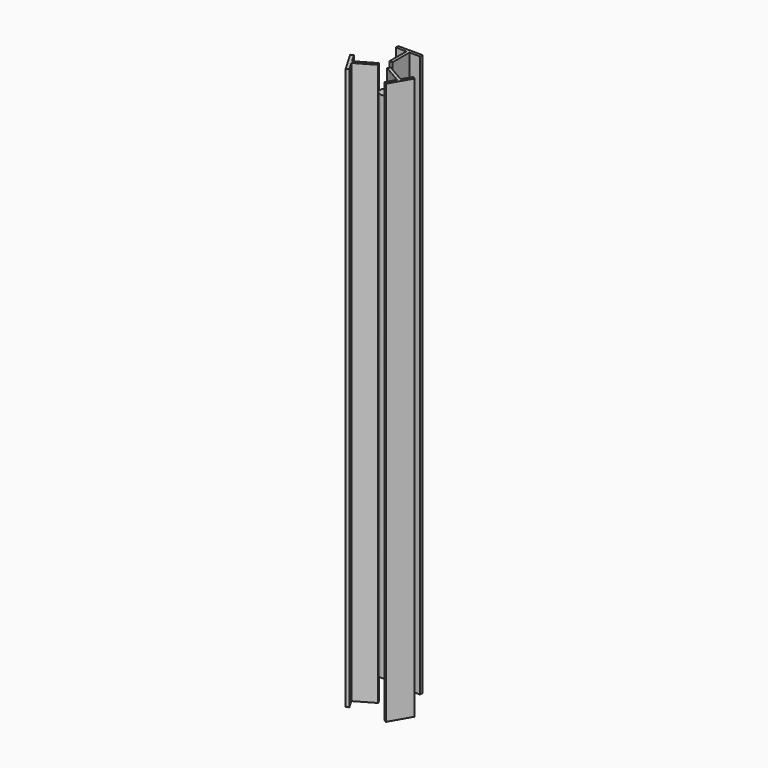
from build123d import *

# Parameters (mm, degrees)
F1_DEPTH = 590
F3_COUNT = 3
F3_ANGLE = 240
F5_R     = 6.35
F6_DEPTH = 269.5


with BuildPart() as f1:
    # F0 (on Top) → F1 (new body)
    with BuildSketch(Plane.XY):
        Polygon((0, 31.75), (-12.7, 31.75), (-12.7, 28.575), (-1.5875, 28.575), (-1.5875, 6.35), (1.5875, 6.35), (1.5875, 28.575), (12.7, 28.575), (12.7, 31.75), align=None)
    extrude(amount=F1_DEPTH)


with BuildPart() as f3_1:
    # F3: instance of F1
    add(f1.part.rotate(Axis((0, 0, 0), (0, 0, 1)), 1 * F3_ANGLE / (F3_COUNT - 1)))


with BuildPart() as f3_2:
    # F3: instance of F1
    add(f1.part.rotate(Axis((0, 0, 0), (0, 0, 1)), 2 * F3_ANGLE / (F3_COUNT - 1)))


with BuildPart() as f6:
    # F5 (on offset) → F6 (new body, symmetric)
    with BuildSketch(Plane.XY.offset(295)):
        Circle(F5_R)
    extrude(amount=F6_DEPTH, both=True)


solid = Compound([f1.part, f3_1.part, f3_2.part, f6.part])
